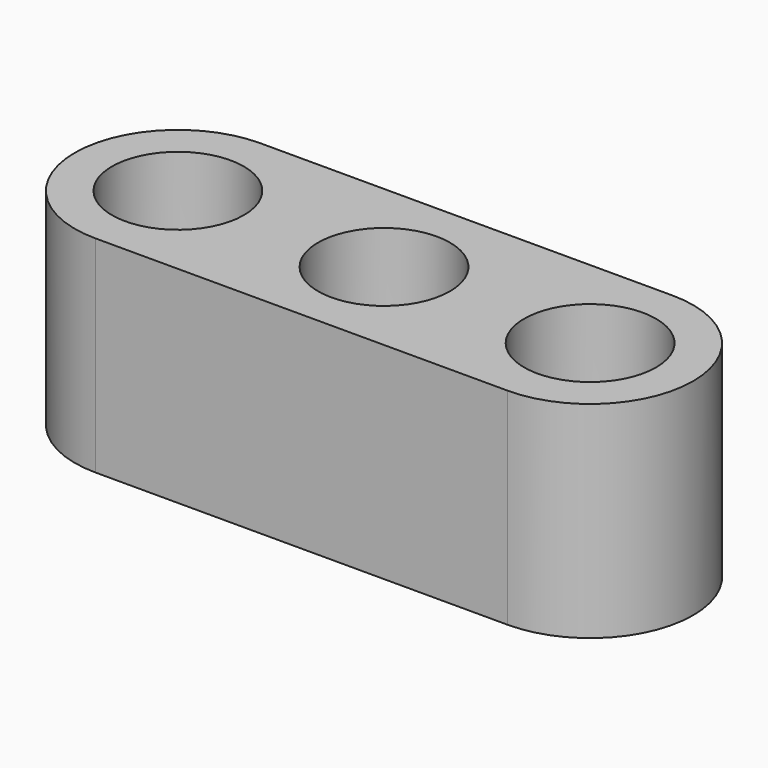
from build123d import *

# Parameters (mm, degrees)
F0_R     = 2.54
F1_DEPTH = 7.9375


with BuildPart() as f1:
    # F0 (on Top) → F1 (new body)
    with BuildSketch(Plane.XY):
        with BuildLine():
            Line((15.875, 3.96875), (0, 3.96875))
            ThreePointArc((0, 3.96875), (-3.96875, 0), (0, -3.96875))
            Line((0, -3.96875), (15.875, -3.96875))
            ThreePointArc((15.875, -3.96875), (19.84375, 0), (15.875, 3.96875))
        make_face()
        Circle(F0_R, mode=Mode.SUBTRACT)
        with Locations((7.9375, 0)):
            Circle(F0_R, mode=Mode.SUBTRACT)
        with Locations((15.875, 0)):
            Circle(F0_R, mode=Mode.SUBTRACT)
    extrude(amount=F1_DEPTH)


solid = f1.part
